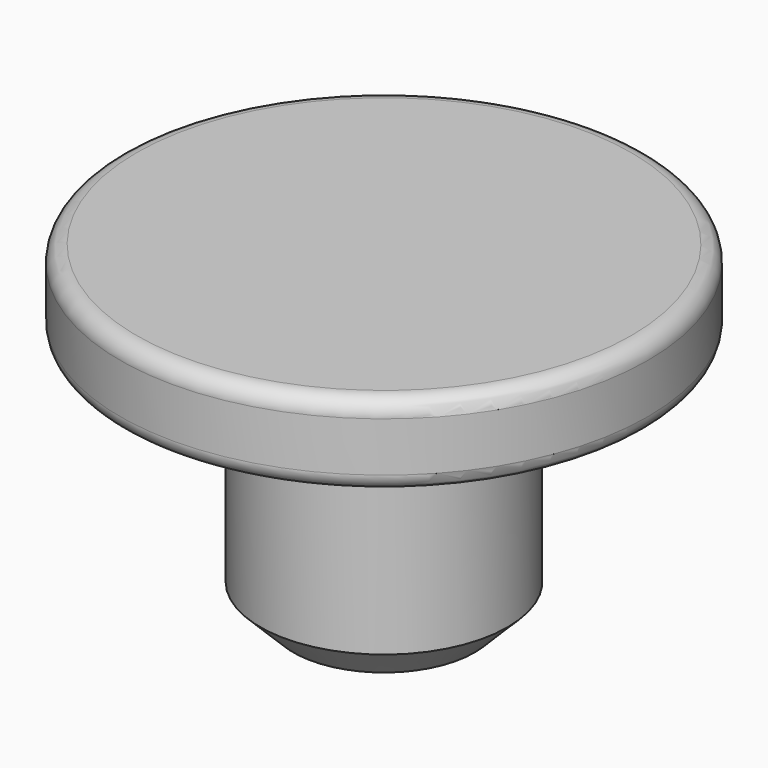
from build123d import *

# Parameters (mm, degrees)
F0_R     = 7.5
F1_DEPTH = 15
F2_R     = 16
F3_DEPTH = 5
F4_R     = 1
F5_SIZE  = 2


with BuildPart() as f1:
    # F0 (on Top) → F1 (new body)
    with BuildSketch(Plane.XY):
        Circle(F0_R)
    extrude(amount=F1_DEPTH)

    # F2 (on face) → F3 (join)
    with BuildSketch(Plane.XY.offset(15)):
        Circle(F2_R)
    extrude(amount=F3_DEPTH)

    # F4
    f4_edges = [f1.edges().sort_by_distance(p)[0] for p in [
        (-16, 0, 20),
        (-16, 0, 15),
    ]]
    fillet(f4_edges, radius=F4_R)

    # F5
    f5_edges = [f1.edges().sort_by_distance(p)[0] for p in [
        (-7.5, 0, 0),
    ]]
    chamfer(f5_edges, length=F5_SIZE)


solid = f1.part
